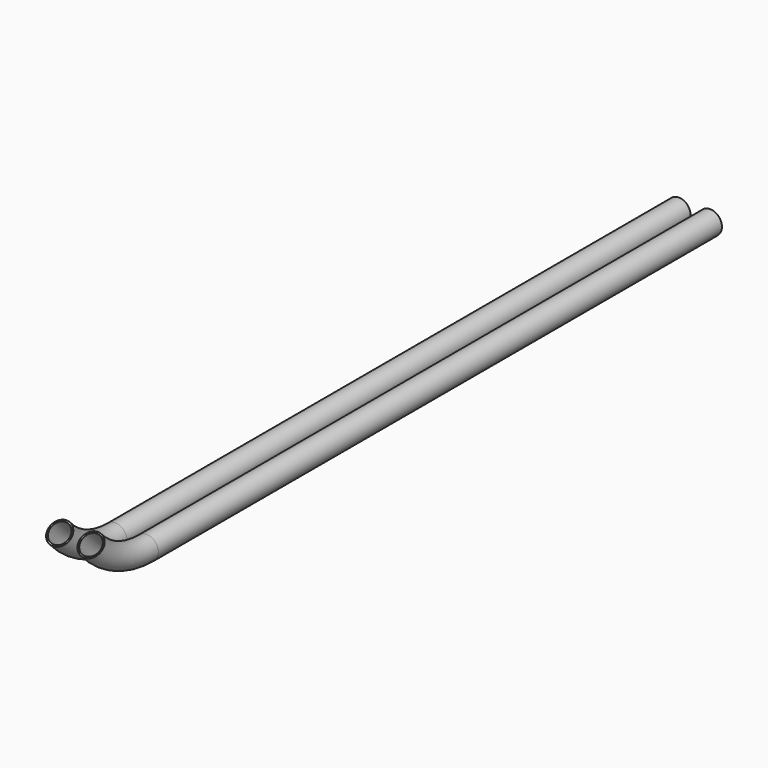
from build123d import *

# Parameters (mm, degrees)
F0_R     = 7.5
F0_R_2   = 6.5
F3_W     = 83.776166
F3_H     = 123.862441
F4_DEPTH = 25


with BuildPart() as f2:
    # F2: sweep along a path in F1
    with BuildLine(Plane.YZ) as f2_path:
        Line((0, 0), (-450, 0))
        ThreePointArc((-450, 0), (-474.282874, 5.133416), (-494.410611, 19.655265))
    # F0 (on Front) → F2 (sweep)
    with BuildSketch(Plane.XZ):
        Circle(F0_R)
        Circle(F0_R_2, mode=Mode.SUBTRACT)
    sweep(path=f2_path.line)


with BuildPart() as f4:
    # F3 (on Top) → F4 (new body)
    with BuildSketch(Plane.XY):
        with Locations((-60.203758, 30.14716)):
            Rectangle(F3_W, F3_H)
        with BuildLine():
            ThreePointArc((-79.142392, 64.044669), (-63.674092, 79.512969), (-48.205793, 64.044669))
            Line((-48.205793, 64.044669), (-48.205793, 23.921367))
            ThreePointArc((-48.205793, 23.921367), (-63.674092, 8.453067), (-79.142392, 23.921367))
            Line((-79.142392, 23.921367), (-79.142392, 64.044669))
        make_face(mode=Mode.SUBTRACT)
        with Locations((-60.203758, 30.14716)):
            Rectangle(F3_W, F3_H)
        with BuildLine():
            ThreePointArc((-79.142392, 64.044669), (-63.674092, 79.512969), (-48.205793, 64.044669))
            Line((-48.205793, 64.044669), (-48.205793, 23.921367))
            ThreePointArc((-48.205793, 23.921367), (-63.674092, 8.453067), (-79.142392, 23.921367))
            Line((-79.142392, 23.921367), (-79.142392, 64.044669))
        make_face(mode=Mode.SUBTRACT)
    extrude(amount=F4_DEPTH)


with BuildPart() as f6_1:
    # F6: copy of F2
    add(f2.part.moved(Location((20, 0, 0))))


solid = Compound([f2.part, f6_1.part])
